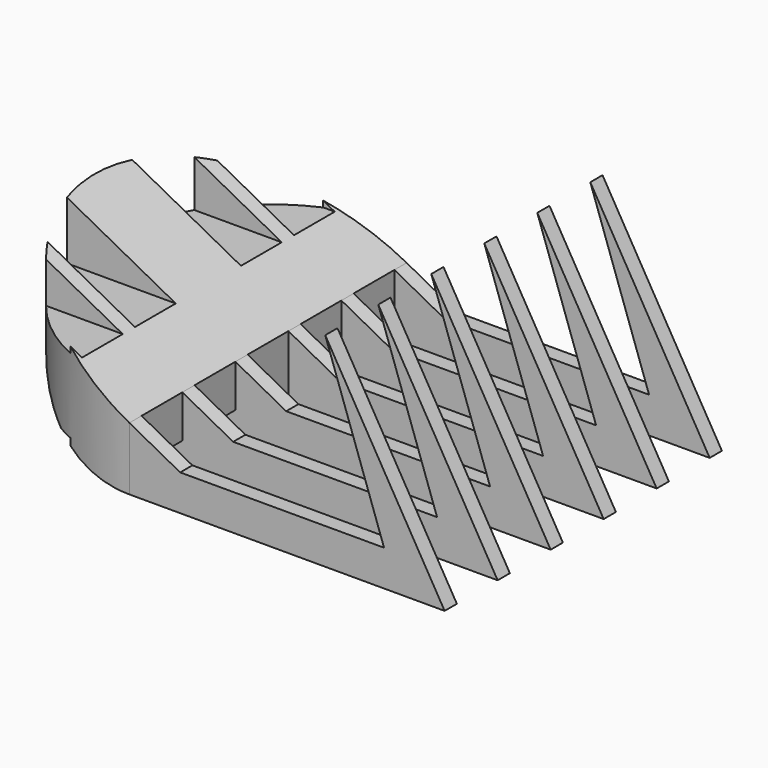
from build123d import *

# Parameters (mm, degrees)
F0_W     = 30.9265870601
F0_H     = 1.5
F1_DEPTH = 20
F2_START = 2
F2_DEPTH = 7.3
F4_DEPTH = 40


with BuildPart() as f1:
    # F0 (on Top) → F1 (new body)
    with BuildSketch(Plane.XY):
        with Locations((15.46329353, -13.2838593498)):
            Rectangle(F0_W, F0_H)
        with BuildLine():
            ThreePointArc((-6.9821200219, -12.5338593498), (-3.5707142143, -13.6546294884), (0, -14.0338593498))
            Line((0, -14.0338593498), (0, -12.5338593498))
            Line((0, -12.5338593498), (-6.9821200219, -12.5338593498))
        make_face()
    extrude(amount=F1_DEPTH)



with BuildPart() as f1b:
    # F0 (on Top) → F1, piece 2 (new body)
    with BuildSketch(Plane.XY):
        with Locations((15.46329353, -6.7838593498)):
            Rectangle(F0_W, F0_H)
        with BuildLine():
            Line((-13.3697419571, -7.5338593498), (0, -7.5338593498))
            Line((0, -7.5338593498), (0, -6.0338593498))
            Line((0, -6.0338593498), (-14.4222051019, -6.0338593498))
            ThreePointArc((-14.4222051019, -6.0338593498), (-13.9161984871, -6.7980500314), (-13.3697419571, -7.5338593498))
        make_face()
    extrude(amount=F1_DEPTH)


with BuildPart() as f1c:
    # F0 (on Top) → F1, piece 3 (new body)
    with BuildSketch(Plane.XY):
        with Locations((15.46329353, -0.2838593498)):
            Rectangle(F0_W, F0_H)
        with Locations((15.46329353, 6.2161406502)):
            Rectangle(F0_W, F0_H)
        with BuildLine():
            Line((-16.5227116419, -1.0338593498), (0, -1.0338593498))
            Line((0, -1.0338593498), (0, 0.4661406502))
            Line((0, 0.4661406502), (0, 5.4661406502))
            Line((0, 5.4661406502), (0, 6.9661406502))
            Line((0, 6.9661406502), (-16.5227116419, 6.9661406502))
            ThreePointArc((-16.5227116419, 6.9661406502), (-17, 2.9661406502), (-16.5227116419, -1.0338593498))
        make_face()
        with BuildLine():
            Line((-16.5227116419, -1.0338593498), (0, -1.0338593498))
            Line((0, -1.0338593498), (0, 0.4661406502))
            Line((0, 0.4661406502), (0, 5.4661406502))
            Line((0, 5.4661406502), (0, 6.9661406502))
            Line((0, 6.9661406502), (-16.5227116419, 6.9661406502))
            ThreePointArc((-16.5227116419, 6.9661406502), (-17, 2.9661406502), (-16.5227116419, -1.0338593498))
        make_face()
    extrude(amount=F1_DEPTH)


with BuildPart() as f1d:
    # F0 (on Top) → F1, piece 4 (new body)
    with BuildSketch(Plane.XY):
        with Locations((15.46329353, 12.7161406502)):
            Rectangle(F0_W, F0_H)
        with BuildLine():
            ThreePointArc((-13.3697419571, 13.4661406502), (-13.9161984871, 12.7303313319), (-14.4222051019, 11.9661406502))
            Line((-14.4222051019, 11.9661406502), (0, 11.9661406502))
            Line((0, 11.9661406502), (0, 13.4661406502))
            Line((0, 13.4661406502), (-13.3697419571, 13.4661406502))
        make_face()
    extrude(amount=F1_DEPTH)


with BuildPart() as f1e:
    # F0 (on Top) → F1, piece 5 (new body)
    with BuildSketch(Plane.XY):
        with Locations((15.46329353, 19.2161406502)):
            Rectangle(F0_W, F0_H)
        with BuildLine():
            ThreePointArc((0, 19.9661406502), (-3.5707142143, 19.5869107888), (-6.9821200219, 18.4661406502))
            Line((-6.9821200219, 18.4661406502), (0, 18.4661406502))
            Line((0, 18.4661406502), (0, 19.9661406502))
        make_face()
    extrude(amount=F1_DEPTH)


with BuildPart() as f1_1:
    add(f1.part)

    add(f1b.part)  # F2 merges F1b

    add(f1c.part)  # F2 merges F1c

    add(f1d.part)  # F2 merges F1d

    add(f1e.part)  # F2 merges F1e
    # F0 (on Top) → F2 (join)
    with BuildSketch(Plane.XY.offset(F2_START)):
        with BuildLine():
            Line((-6.9821200219, -12.5338593498), (0, -12.5338593498))
            Line((0, -12.5338593498), (0, -7.5338593498))
            Line((0, -7.5338593498), (-13.3697419571, -7.5338593498))
            ThreePointArc((-13.3697419571, -7.5338593498), (-10.4785290715, -10.4204357791), (-6.9821200219, -12.5338593498))
        make_face()
        with BuildLine():
            Line((-14.4222051019, -6.0338593498), (0, -6.0338593498))
            Line((0, -6.0338593498), (0, -1.0338593498))
            Line((0, -1.0338593498), (-16.5227116419, -1.0338593498))
            ThreePointArc((-16.5227116419, -1.0338593498), (-15.6731288538, -3.6181612817), (-14.4222051019, -6.0338593498))
        make_face()
        with BuildLine():
            Line((-16.5227116419, -1.0338593498), (0, -1.0338593498))
            Line((0, -1.0338593498), (0, 0.4661406502))
            Line((0, 0.4661406502), (0, 5.4661406502))
            Line((0, 5.4661406502), (0, 6.9661406502))
            Line((0, 6.9661406502), (-16.5227116419, 6.9661406502))
            ThreePointArc((-16.5227116419, 6.9661406502), (-17, 2.9661406502), (-16.5227116419, -1.0338593498))
        make_face()
        with BuildLine():
            ThreePointArc((-14.4222051019, 11.9661406502), (-15.6731288538, 9.5504425822), (-16.5227116419, 6.9661406502))
            Line((-16.5227116419, 6.9661406502), (0, 6.9661406502))
            Line((0, 6.9661406502), (0, 11.9661406502))
            Line((0, 11.9661406502), (-14.4222051019, 11.9661406502))
        make_face()
        with BuildLine():
            ThreePointArc((-6.9821200219, 18.4661406502), (-10.4785290715, 16.3527170795), (-13.3697419571, 13.4661406502))
            Line((-13.3697419571, 13.4661406502), (0, 13.4661406502))
            Line((0, 13.4661406502), (0, 18.4661406502))
            Line((0, 18.4661406502), (-6.9821200219, 18.4661406502))
        make_face()
    extrude(amount=F2_DEPTH)

    # F3 (on face) → F4 (intersect)
    with BuildSketch(Plane.XZ.offset(14.0338593498)):
        with BuildLine():
            Line((0, 6.1789047227), (-18.9112946391, 16.2631310523))
            ThreePointArc((-18.9112946391, 16.2631310523), (-12.4712318613, 4.6249463152), (0, 0))
            Line((0, 0), (0, 6.1789047227))
        make_face()
        Polygon((0, 6.1789047227), (0, 0), (30.9265870601, 0), (19.2144531757, 20), (24.9826789947, 3.5219495185), (4.9826789947, 3.5219495185), align=None)
    extrude(amount=-F4_DEPTH, mode=Mode.INTERSECT)


solid = f1_1.part
